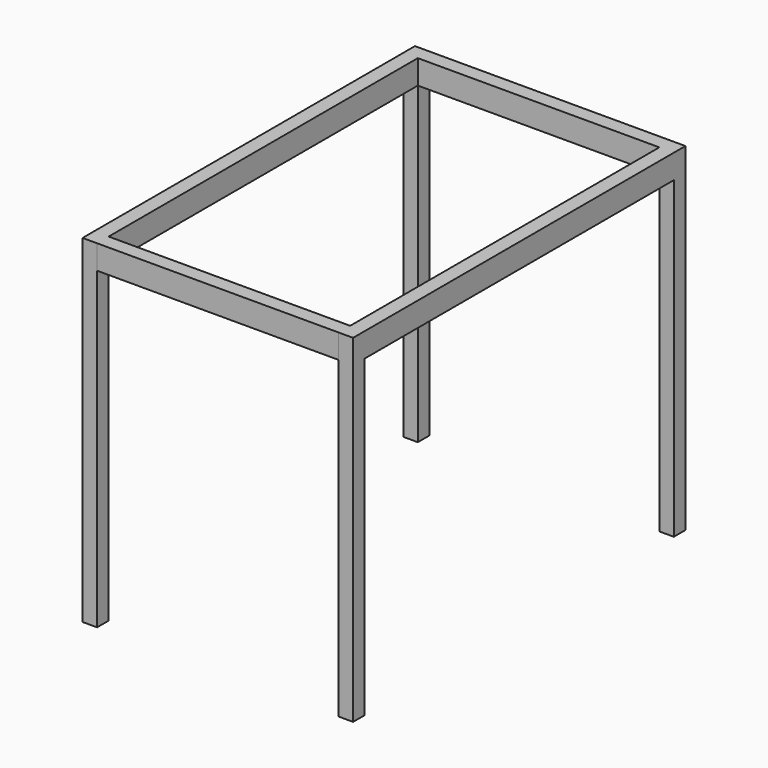
from build123d import *

# Parameters (mm, degrees)
F0_W     = 500
F0_H     = 30
F0_W_2   = 30
F0_H_2   = 800
F1_DEPTH = 50
F2_DEPTH = 700


with BuildPart() as f1:
    # F0 (on Top) → F1 (new body)
    with BuildSketch(Plane.XY):
        Polygon((-530.000132, 0), (-500, 0), (-500, 800), (-529.910707, 800), align=None)
        Polygon((-529.910707, 800), (-500, 800), (-500, 830), (-529.999868, 830), align=None)
        with Locations((-250, 815)):
            Rectangle(F0_W, F0_H)
        with Locations((15, 815)):
            Rectangle(F0_W_2, F0_H)
        with Locations((15, 400)):
            Rectangle(F0_W_2, F0_H_2)
        with Locations((15, -15)):
            Rectangle(F0_W_2, F0_H)
        Polygon((0, -30), (0, 0), (-500, 0), (-499.91084, -29.999868), align=None)
        Polygon((-499.91084, -29.999868), (-500, 0), (-530.000132, 0), (-529.910707, -30.089028), align=None)
    extrude(amount=-F1_DEPTH)

    # F0 (on Top) → F2 (join)
    with BuildSketch(Plane.XY):
        with Locations((15, -15)):
            Rectangle(F0_W_2, F0_H)
        Polygon((-499.91084, -29.999868), (-500, 0), (-530.000132, 0), (-529.910707, -30.089028), align=None)
        Polygon((-529.910707, 800), (-500, 800), (-500, 830), (-529.999868, 830), align=None)
        with Locations((15, 815)):
            Rectangle(F0_W_2, F0_H)
    extrude(amount=-F2_DEPTH)


solid = f1.part
